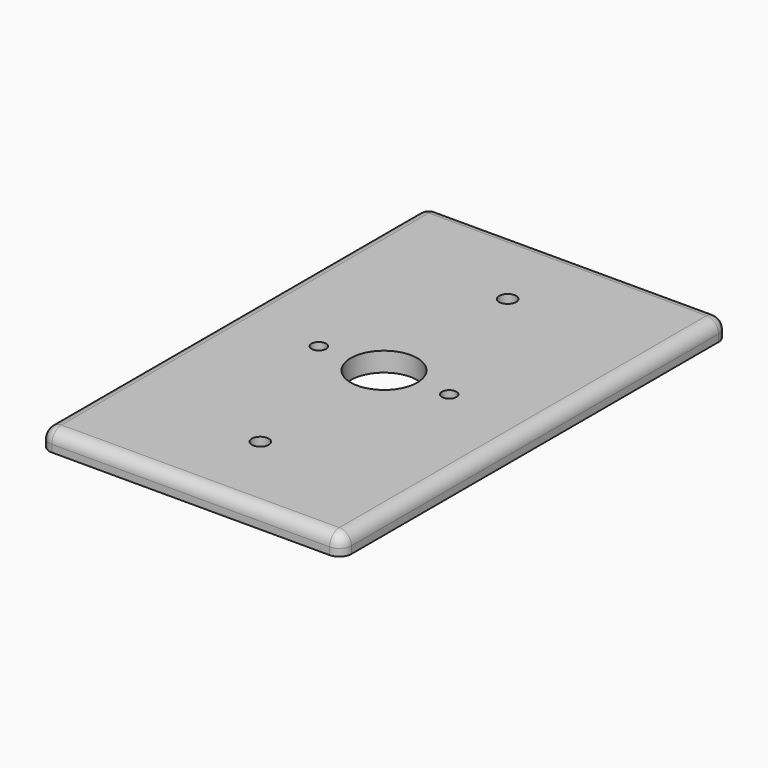
from build123d import *

# Parameters (mm, degrees)
F0_R     = 2.2225
F0_R_2   = 1.905
F0_R_3   = 8.73125
F1_DEPTH = 5.08
F2_R     = 3.175
F3_T     = -2.032
F4_R     = 4.92125
F4_R_2   = 1.905
F4_R_3   = 2.2225
F5_DEPTH = 6.35


with BuildPart() as f1:
    # F0 (on Top) → F1 (new body)
    with BuildSketch(Plane.XY):
        with BuildLine():
            ThreePointArc((39.6875, 60.325), (38.7575640303, 62.5700640303), (36.5125, 63.5))
            Line((36.5125, 63.5), (-36.5125, 63.5))
            ThreePointArc((-36.5125, 63.5), (-38.7575640303, 62.5700640303), (-39.6875, 60.325))
            Line((-39.6875, 60.325), (-39.6875, -60.325))
            ThreePointArc((-39.6875, -60.325), (-38.7575640303, -62.5700640303), (-36.5125, -63.5))
            Line((-36.5125, -63.5), (36.5125, -63.5))
            ThreePointArc((36.5125, -63.5), (38.7575640303, -62.5700640303), (39.6875, -60.325))
            Line((39.6875, -60.325), (39.6875, 60.325))
        make_face()
        with Locations((0, -40.64)):
            Circle(F0_R, mode=Mode.SUBTRACT)
        with Locations((-17.145, 0)):
            Circle(F0_R_2, mode=Mode.SUBTRACT)
        Circle(F0_R_3, mode=Mode.SUBTRACT)
        with Locations((17.145, 0)):
            Circle(F0_R_2, mode=Mode.SUBTRACT)
        with Locations((0, 40.64)):
            Circle(F0_R, mode=Mode.SUBTRACT)
    extrude(amount=-F1_DEPTH)

    # F2
    f2_edges = [f1.edges().sort_by_distance(p)[0] for p in [
        (0, -63.5, 0),
    ]]
    fillet(f2_edges, radius=F2_R)

    # F3
    f3_openings = [f1.faces().sort_by_distance(p)[0] for p in [
        (38.189855, 0, -5.08),
    ]]
    offset(amount=F3_T, openings=f3_openings)

    # F4 (on face) → F5 (join)
    with BuildSketch(Plane.XY):
        with Locations((-17.145, 0)):
            Circle(F4_R)
        with Locations((-17.145, 0)):
            Circle(F4_R_2, mode=Mode.SUBTRACT)
        with Locations((17.145, 0)):
            Circle(F4_R)
        with Locations((17.145, 0)):
            Circle(F4_R_2, mode=Mode.SUBTRACT)
        with Locations((0, 40.64)):
            Circle(F4_R)
        with Locations((0, 40.64)):
            Circle(F4_R_3, mode=Mode.SUBTRACT)
        with Locations((0, -40.64)):
            Circle(F4_R)
        with Locations((0, -40.64)):
            Circle(F4_R_3, mode=Mode.SUBTRACT)
    extrude(amount=-F5_DEPTH)


solid = f1.part
